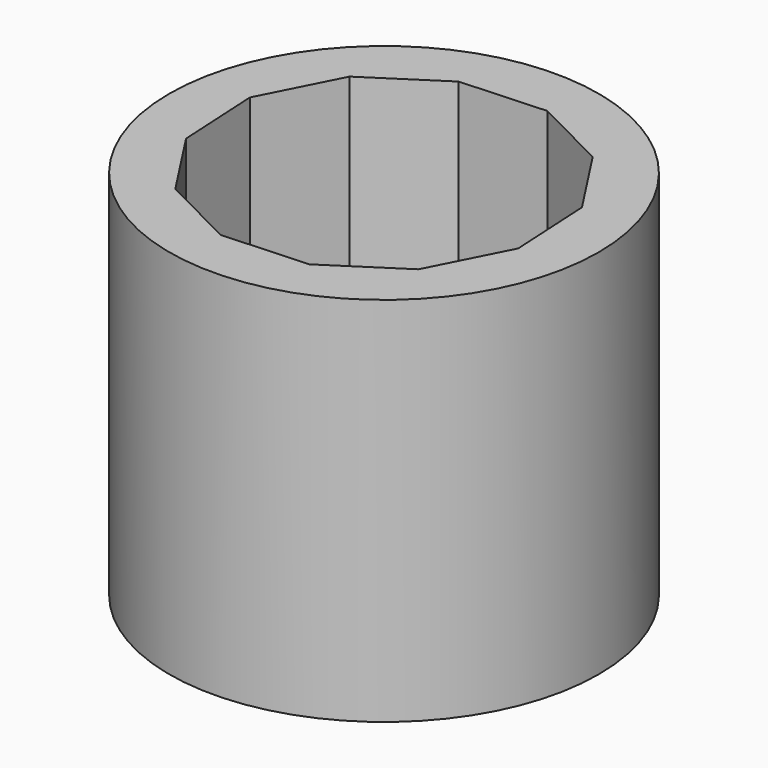
from build123d import *

# Parameters (mm, degrees)
F0_R     = 26
F0_R_2   = 10
F1_DEPTH = 20
F2_R     = 26
F3_DEPTH = 25


with BuildPart() as f1:
    # F0 (on Top) → F1 (new body)
    with BuildSketch(Plane.XY):
        Circle(F0_R)
        Circle(F0_R_2, mode=Mode.SUBTRACT)
    extrude(amount=F1_DEPTH)

    # F2 (on face) → F3 (join)
    with BuildSketch(Plane.XY.offset(20)):
        Circle(F2_R)
        with BuildLine():
            ThreePointArc((19.016501, 6.194569), (19.752595, 3.136078), (20, 0))
            ThreePointArc((20, 0), (19.891219, -2.083129), (19.566057, -4.143597))
            ThreePointArc((19.566057, -4.143597), (17.826918, -9.066476), (14.872904, -13.371489))
            ThreePointArc((14.872904, -13.371489), (10.905326, -16.765257), (6.194569, -19.016501))
            ThreePointArc((6.194569, -19.016501), (1.061661, -19.971802), (-4.143597, -19.566057))
            ThreePointArc((-4.143597, -19.566057), (-9.066476, -17.826918), (-13.371489, -14.872904))
            ThreePointArc((-13.371489, -14.872904), (-16.765257, -10.905326), (-19.016501, -6.194569))
            ThreePointArc((-19.016501, -6.194569), (-19.971802, -1.061661), (-19.566057, 4.143597))
            ThreePointArc((-19.566057, 4.143597), (-17.826918, 9.066476), (-14.872904, 13.371489))
            ThreePointArc((-14.872904, 13.371489), (-10.905326, 16.765257), (-6.194569, 19.016501))
            ThreePointArc((-6.194569, 19.016501), (-1.061661, 19.971802), (4.143597, 19.566057))
            ThreePointArc((4.143597, 19.566057), (9.066476, 17.826918), (13.371489, 14.872904))
            ThreePointArc((13.371489, 14.872904), (16.765257, 10.905326), (19.016501, 6.194569))
        make_face(mode=Mode.SUBTRACT)
        with BuildLine():
            Line((-14.872904, 13.371489), (-6.194569, 19.016501))
            ThreePointArc((-6.194569, 19.016501), (-10.905326, 16.765257), (-14.872904, 13.371489))
        make_face()
        with BuildLine():
            Line((-6.194569, 19.016501), (4.143597, 19.566057))
            ThreePointArc((4.143597, 19.566057), (-1.061661, 19.971802), (-6.194569, 19.016501))
        make_face()
        with BuildLine():
            Line((4.143597, 19.566057), (13.371489, 14.872904))
            ThreePointArc((13.371489, 14.872904), (9.066476, 17.826918), (4.143597, 19.566057))
        make_face()
        with BuildLine():
            Line((13.371489, 14.872904), (19.016501, 6.194569))
            ThreePointArc((19.016501, 6.194569), (16.765257, 10.905326), (13.371489, 14.872904))
        make_face()
        with BuildLine():
            Line((-19.566057, 4.143597), (-14.872904, 13.371489))
            ThreePointArc((-14.872904, 13.371489), (-17.826918, 9.066476), (-19.566057, 4.143597))
        make_face()
        with BuildLine():
            ThreePointArc((-13.371489, -14.872904), (-9.066476, -17.826918), (-4.143597, -19.566057))
            Line((-4.143597, -19.566057), (-13.371489, -14.872904))
        make_face()
        with BuildLine():
            ThreePointArc((-19.016501, -6.194569), (-16.765257, -10.905326), (-13.371489, -14.872904))
            Line((-13.371489, -14.872904), (-19.016501, -6.194569))
        make_face()
        with BuildLine():
            ThreePointArc((-4.143597, -19.566057), (1.061661, -19.971802), (6.194569, -19.016501))
            Line((6.194569, -19.016501), (-4.143597, -19.566057))
        make_face()
        with BuildLine():
            ThreePointArc((6.194569, -19.016501), (10.905326, -16.765257), (14.872904, -13.371489))
            Line((14.872904, -13.371489), (6.194569, -19.016501))
        make_face()
        with BuildLine():
            ThreePointArc((14.872904, -13.371489), (17.826918, -9.066476), (19.566057, -4.143597))
            Line((19.566057, -4.143597), (14.872904, -13.371489))
        make_face()
        with BuildLine():
            ThreePointArc((19.566057, -4.143597), (19.891219, -2.083129), (20, 0))
            ThreePointArc((20, 0), (19.752595, 3.136078), (19.016501, 6.194569))
            Line((19.016501, 6.194569), (19.566057, -4.143597))
        make_face()
        with BuildLine():
            Line((-19.016501, -6.194569), (-19.566057, 4.143597))
            ThreePointArc((-19.566057, 4.143597), (-19.971802, -1.061661), (-19.016501, -6.194569))
        make_face()
    extrude(amount=F3_DEPTH)


solid = f1.part
